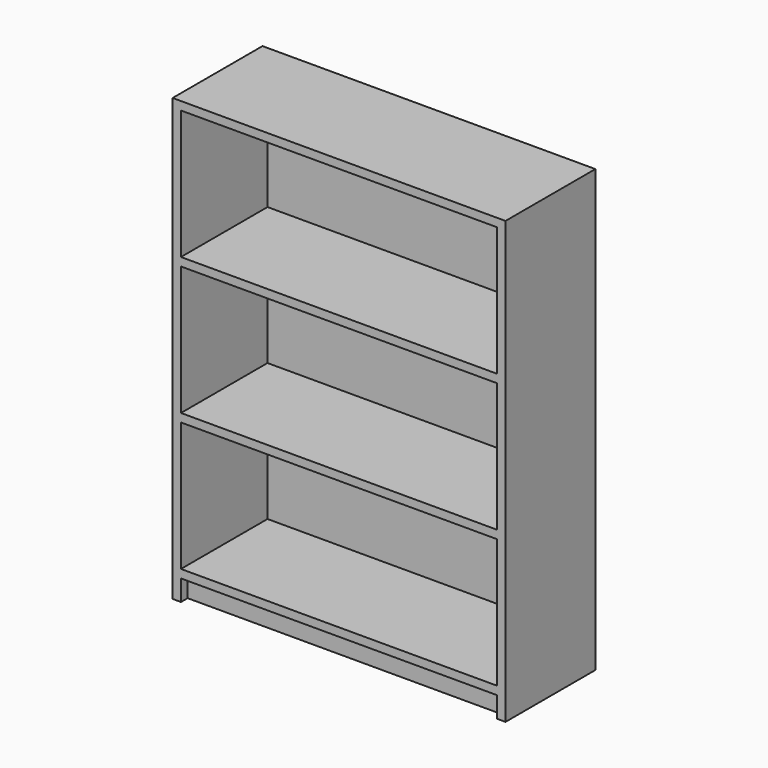
from build123d import *

# Parameters (mm, degrees)
F0_W     = 800
F0_H     = 270
F1_DEPTH = 1060
F2_W     = 760
F2_H     = 50
F3_DEPTH = 20
F4_W     = 760
F4_H     = 310
F5_DEPTH = 260


with BuildPart() as f1:
    # F0 (on Top) → F1 (new body)
    with BuildSketch(Plane.XY):
        with Locations((143.156862, -15.404297)):
            Rectangle(F0_W, F0_H)
    extrude(amount=F1_DEPTH)

    # F2 (on face) → F3 (cut)
    with BuildSketch(Plane.XZ.offset(150.404297)):
        with Locations((143.156862, 25)):
            Rectangle(F2_W, F2_H)
    extrude(amount=-F3_DEPTH, mode=Mode.SUBTRACT)

    # F4 (on face) → F5 (cut)
    with BuildSketch(Plane.XZ.offset(150.404297)):
        with Locations((143.156862, 885)):
            Rectangle(F4_W, F4_H)
        with Locations((143.156862, 555)):
            Rectangle(F4_W, F4_H)
        with Locations((143.156862, 225)):
            Rectangle(F4_W, F4_H)
    extrude(amount=-F5_DEPTH, mode=Mode.SUBTRACT)


solid = f1.part
